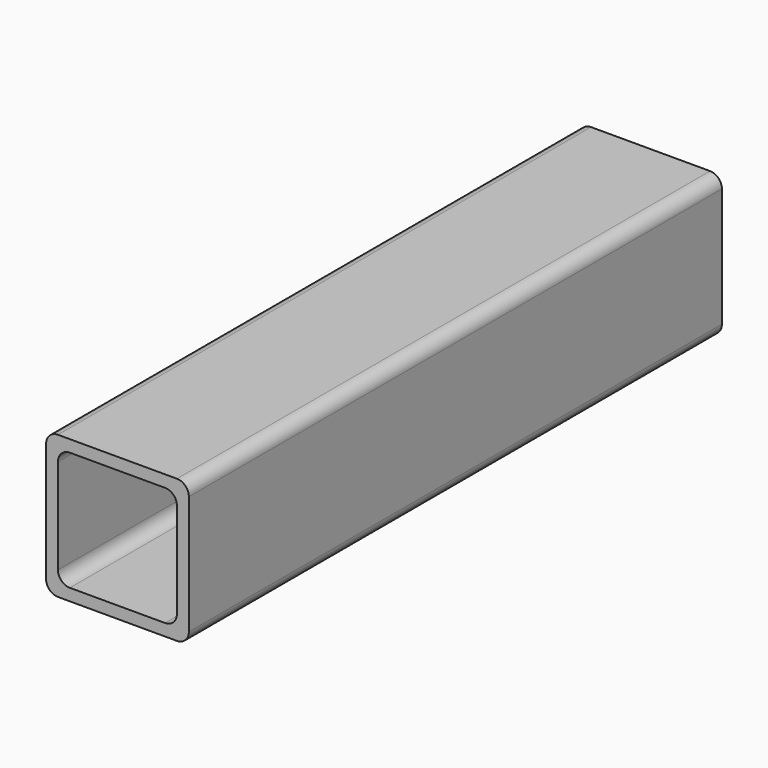
from build123d import *

# Parameters (mm, degrees)
F1_DEPTH = 177.8


with BuildPart() as f1:
    # F0 (on Front) → F1 (new body)
    with BuildSketch(Plane.XZ):
        with BuildLine():
            ThreePointArc((19.05, 15.875), (18.120064, 18.120064), (15.875, 19.05))
            Line((15.875, 19.05), (-15.875, 19.05))
            ThreePointArc((-15.875, 19.05), (-18.120064, 18.120064), (-19.05, 15.875))
            Line((-19.05, 15.875), (-19.05, -15.875))
            ThreePointArc((-19.05, -15.875), (-18.120064, -18.120064), (-15.875, -19.05))
            Line((-15.875, -19.05), (15.875, -19.05))
            ThreePointArc((15.875, -19.05), (18.120064, -18.120064), (19.05, -15.875))
            Line((19.05, -15.875), (19.05, 15.875))
        make_face()
        with BuildLine():
            Line((-12.7, 15.875), (12.7, 15.875))
            ThreePointArc((12.7, 15.875), (14.945064, 14.945064), (15.875, 12.7))
            Line((15.875, 12.7), (15.875, -12.7))
            ThreePointArc((15.875, -12.7), (14.945064, -14.945064), (12.7, -15.875))
            Line((12.7, -15.875), (-12.7, -15.875))
            ThreePointArc((-12.7, -15.875), (-14.945064, -14.945064), (-15.875, -12.7))
            Line((-15.875, -12.7), (-15.875, 12.7))
            ThreePointArc((-15.875, 12.7), (-14.945064, 14.945064), (-12.7, 15.875))
        make_face(mode=Mode.SUBTRACT)
    extrude(amount=F1_DEPTH)


solid = f1.part
